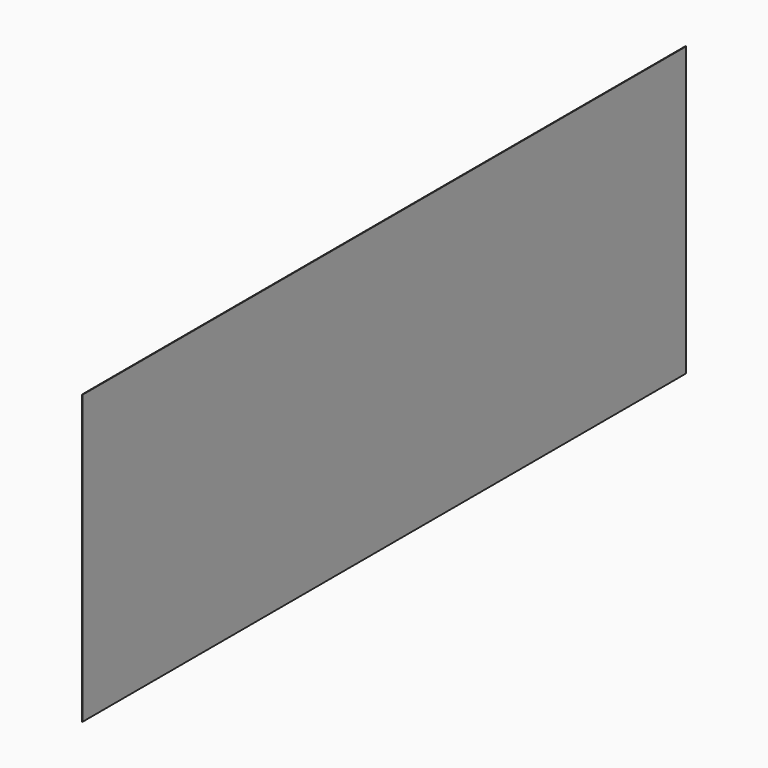
from build123d import *

# Parameters (mm, degrees)
F1_DEPTH = 0.0254
F4_DEPTH = 0.0254
F5_W     = 33.0361854285
F5_H     = 12.603007257
F7_DEPTH = 0.0254


with BuildPart() as f1:
    # F0 (on Right) → F1 (new body)
    with BuildSketch(Plane.YZ):
        Polygon((-42.5828881562, 33.7989740074), (-55.3768500686, 33.7989740074), (-54.9949407578, 23.2964698225), (-42.5828881562, 23.2964698225), align=None)
    extrude(amount=F1_DEPTH)


with BuildPart() as f4:
    # F2 (on Right) → F4 (new body)
    with BuildSketch(Plane.YZ):
        Polygon((-15.8492363989, 37.4271124601), (-30.1708355546, 37.4271124601), (-30.1708355546, 23.6783772707), (-15.4673270881, 23.6783772707), align=None)
    extrude(amount=F4_DEPTH)


with BuildPart() as f7:
    # F5 (on Right) → F7 (new body)
    with BuildSketch(Plane.YZ):
        with Locations((26.2597678229, 31.1256088316)):
            Rectangle(F5_W, F5_H)
    extrude(amount=F7_DEPTH)


solid = f7.part
